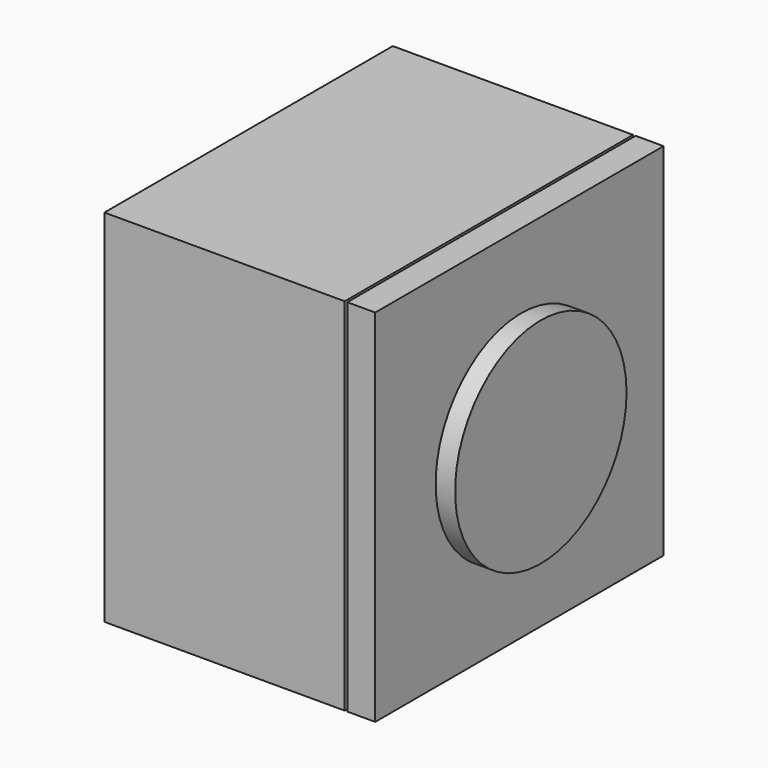
from build123d import *

# Parameters (mm, degrees)
F0_W     = 55.5
F0_H     = 55.5
F0_R     = 7.5
F1_DEPTH = 37
F2_DEPTH = 5
F3_R     = 16.5
F3_R_2   = 7.5
F4_DEPTH = 3
F6_W     = 55.5
F6_H     = 55.5
F6_R     = 7.65
F7_DEPTH = 4.3


with BuildPart() as f1:
    # F0 (on Right) → F1 (new body)
    with BuildSketch(Plane.YZ):
        with Locations((12.2317537814, 27.75)):
            Rectangle(F0_W, F0_H)
        with Locations((12.2317537814, 27.75)):
            Circle(F0_R, mode=Mode.SUBTRACT)
        with Locations((12.2317537814, 27.75)):
            Circle(F0_R)
    extrude(amount=-F1_DEPTH)

    # F0 (on Right) → F2 (join)
    with BuildSketch(Plane.YZ):
        with Locations((12.2317537814, 27.75)):
            Circle(F0_R)
    extrude(amount=F2_DEPTH)

    # F3 (on face) → F4 (join)
    with BuildSketch(Plane.YZ.offset(5)):
        with Locations((12.2317537814, 27.75)):
            Circle(F3_R)
        with Locations((12.2317537814, 27.75)):
            Circle(F3_R_2, mode=Mode.SUBTRACT)
        with Locations((12.2317537814, 27.75)):
            Circle(F3_R_2)
    extrude(amount=F4_DEPTH)


with BuildPart() as f7:
    # F6 (on offset) → F7 (new body)
    with BuildSketch(Plane.YZ.offset(0.4)):
        with Locations((12.2317537814, 27.75)):
            Rectangle(F6_W, F6_H)
        with Locations((12.2317537814, 27.75)):
            Circle(F6_R, mode=Mode.SUBTRACT)
    extrude(amount=F7_DEPTH)


solid = Compound([f1.part, f7.part])
